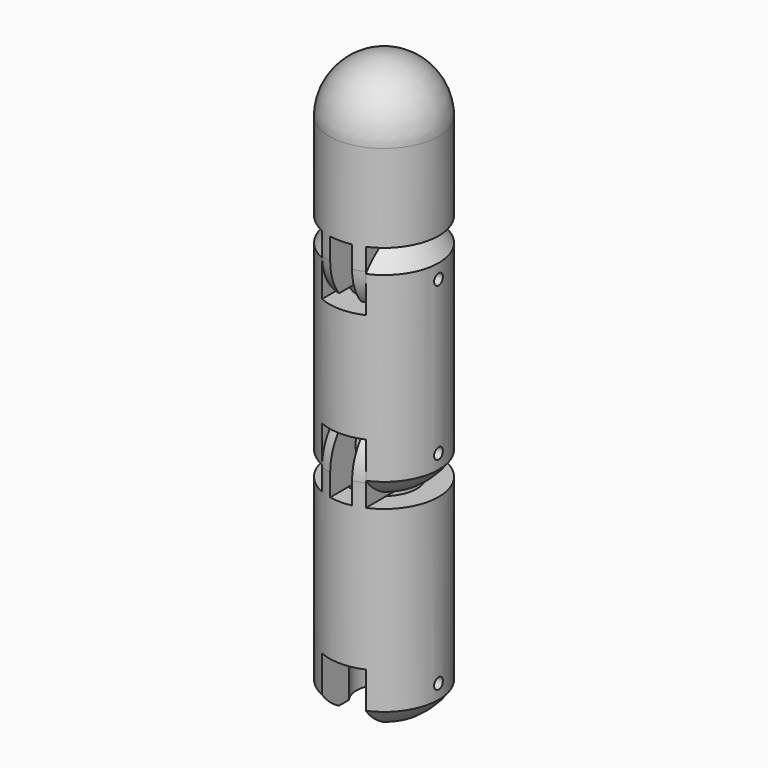
from build123d import *

# Parameters (mm, degrees)
CYLINDER067_R                = 3
CYLINDER067_DEPTH            = 10
CYLINDER071_R                = 5
CYLINDER071_DEPTH            = 4
CYLINDER066_R                = 0.5
CYLINDER066_DEPTH            = 10
CYLINDER075_R                = 2.5
CYLINDER075_DEPTH            = 10
BOX025_W                     = 4
BOX025_H                     = 10
BOX025_DEPTH                 = 5
CYLINDER074_R                = 5
CYLINDER074_DEPTH            = 10
CYLINDER063_R                = 0.5
CYLINDER063_DEPTH            = 10
CYLINDER065_R                = 2
CYLINDER065_DEPTH            = 4
CYLINDER069_R                = 3
CYLINDER069_DEPTH            = 10
BOX026_W                     = 10
BOX026_H                     = 10
BOX026_DEPTH                 = 10
BOX023_W                     = 2
BOX023_H                     = 10
BOX023_DEPTH                 = 10
BOX024_W                     = 10
BOX024_H                     = 10
BOX024_DEPTH                 = 10
CYLINDER076_R                = 5
CYLINDER076_DEPTH            = 10
CYLINDER072_R                = 5
CYLINDER072_DEPTH            = 10
CYLINDER079_R                = 0.5
CYLINDER079_DEPTH            = 10
CYLINDER068_R                = 2
CYLINDER068_DEPTH            = 4
CYLINDER080_R                = 3
CYLINDER080_DEPTH            = 10
BOX027_W                     = 10
BOX027_H                     = 10
BOX027_DEPTH                 = 10
BOX028_W                     = 2
BOX028_H                     = 10
BOX028_DEPTH                 = 10
BOX022_W                     = 10
BOX022_H                     = 10
BOX022_DEPTH                 = 10
CYLINDER078_R                = 5
CYLINDER078_DEPTH            = 10
CYLINDER077_R                = 5
CYLINDER077_DEPTH            = 10
CUT067_PLACEMENT_ANGLE       = 180
CYLINDER084_R                = 3
CYLINDER084_DEPTH            = 10
CYLINDER070_R                = 5
CYLINDER070_DEPTH            = 4
CYLINDER082_R                = 0.5
CYLINDER082_DEPTH            = 10
CYLINDER064_R                = 2.5
CYLINDER064_DEPTH            = 10
BOX029_W                     = 4
BOX029_H                     = 10
BOX029_DEPTH                 = 5
CYLINDER083_R                = 5
CYLINDER083_DEPTH            = 10
FUSION005033_PLACEMENT_ANGLE = 180
CYLINDER086_R                = 3
CYLINDER086_DEPTH            = 10
CYLINDER085_R                = 5
CYLINDER085_DEPTH            = 4
CYLINDER081_R                = 0.5
CYLINDER081_DEPTH            = 10
CYLINDER087_R                = 2.5
CYLINDER087_DEPTH            = 10
BOX030_W                     = 4
BOX030_H                     = 10
BOX030_DEPTH                 = 5
CYLINDER073_R                = 5
CYLINDER073_DEPTH            = 10


with BuildPart() as cylinder067:
    # Cylinder067 → Cylinder067 (new body)
    with BuildSketch(Plane(origin=(18, 0, -6), x_dir=(1, 0, 0), z_dir=(0, 0, 1))):
        Circle(CYLINDER067_R)
    extrude(amount=CYLINDER067_DEPTH)


with BuildPart() as cut064:
    # Cylinder071 → Cylinder071 (new body)
    with BuildSketch(Plane(origin=(18, 0, -4), x_dir=(1, 0, 0), z_dir=(0, 0, 1))):
        Circle(CYLINDER071_R)
    extrude(amount=CYLINDER071_DEPTH)

    # Cut064: cut Cylinder067
    add(cylinder067.part, mode=Mode.SUBTRACT)


with BuildPart() as cut064_1:
    # Cut064 placement: moved
    add(cut064.part.moved(Location((-18, 0, 0))))


with BuildPart() as sphere016:
    # Sphere016 → Sphere016 (revolve)
    with BuildSketch(Plane(origin=(0, 0, -5), x_dir=(1, 0, 0), z_dir=(0, -1, 0))):
        with BuildLine():
            ThreePointArc((0, -6), (6, 0), (0, 6))
            Line((0, 6), (0, -6))
        make_face()
    revolve(axis=Axis((0, 0, -5), (0, 0, 1)))


with BuildPart() as cylinder066:
    # Cylinder066 → Cylinder066 (new body)
    with BuildSketch(Plane(origin=(5, 0, -7), x_dir=(0, 0, 1), z_dir=(-1, 0, 0))):
        Circle(CYLINDER066_R)
    extrude(amount=CYLINDER066_DEPTH)


with BuildPart() as cylinder075:
    # Cylinder075 → Cylinder075 (new body)
    with BuildSketch(Plane.XY.offset(-10)):
        Circle(CYLINDER075_R)
    extrude(amount=CYLINDER075_DEPTH)


with BuildPart() as cube025:
    # Box025 → Box025 (new body)
    with BuildSketch(Plane(origin=(-2, -5, -10), x_dir=(1, 0, 0), z_dir=(0, 0, 1))):
        with Locations((2, 5)):
            Rectangle(BOX025_W, BOX025_H)
    extrude(amount=BOX025_DEPTH)


with BuildPart() as fusion005028:
    # Cylinder074 → Cylinder074 (new body)
    with BuildSketch(Plane.XY.offset(-10)):
        Circle(CYLINDER074_R)
    extrude(amount=CYLINDER074_DEPTH)

    # Cut063: cut Cube025
    add(cube025.part, mode=Mode.SUBTRACT)

    # Cut062: cut Cylinder075
    add(cylinder075.part, mode=Mode.SUBTRACT)

    # Cut056: cut Cylinder066
    add(cylinder066.part, mode=Mode.SUBTRACT)

    # Common012: intersect Sphere016
    add(sphere016.part, mode=Mode.INTERSECT)

    # Fusion005030: union Cut064
    add(cut064_1.part)


with BuildPart() as fusion005028_1:
    # Fusion005028 placement: moved
    add(fusion005028.part.moved(Location((0, 0, -18.5))))


with BuildPart() as cylinder063:
    # Cylinder063 → Cylinder063 (new body)
    with BuildSketch(Plane(origin=(-5, 0, -7), x_dir=(0, 0, -1), z_dir=(1, 0, 0))):
        Circle(CYLINDER063_R)
    extrude(amount=CYLINDER063_DEPTH)


with BuildPart() as cylinder065:
    # Cylinder065 → Cylinder065 (new body)
    with BuildSketch(Plane(origin=(-2, -50, 1), x_dir=(0, 0, -1), z_dir=(1, 0, 0))):
        Circle(CYLINDER065_R)
    extrude(amount=CYLINDER065_DEPTH)


with BuildPart() as cylinder069:
    # Cylinder069 → Cylinder069 (new body)
    with BuildSketch(Plane(origin=(0, -50, -12), x_dir=(1, 0, 0), z_dir=(0, 0, 1))):
        Circle(CYLINDER069_R)
    extrude(amount=CYLINDER069_DEPTH)


with BuildPart() as cube026:
    # Box026 → Box026 (new body)
    with BuildSketch(Plane(origin=(-12, -55, -2), x_dir=(1, 0, 0), z_dir=(0, 0, 1))):
        with Locations((5, 5)):
            Rectangle(BOX026_W, BOX026_H)
    extrude(amount=BOX026_DEPTH)


with BuildPart() as cube023:
    # Box023 → Box023 (new body)
    with BuildSketch(Plane(origin=(-1, -55, -2), x_dir=(1, 0, 0), z_dir=(0, 0, 1))):
        with Locations((1, 5)):
            Rectangle(BOX023_W, BOX023_H)
    extrude(amount=BOX023_DEPTH)


with BuildPart() as cube024:
    # Box024 → Box024 (new body)
    with BuildSketch(Plane(origin=(2, -55, -2), x_dir=(1, 0, 0), z_dir=(0, 0, 1))):
        with Locations((5, 5)):
            Rectangle(BOX024_W, BOX024_H)
    extrude(amount=BOX024_DEPTH)


with BuildPart() as cylinder076:
    # Cylinder076 → Cylinder076 (new body)
    with BuildSketch(Plane(origin=(0, -50, -10), x_dir=(1, 0, 0), z_dir=(0, 0, 1))):
        Circle(CYLINDER076_R)
    extrude(amount=CYLINDER076_DEPTH)


with BuildPart() as sphere017:
    # Sphere017 → Sphere017 (revolve)
    with BuildSketch(Plane.XZ.offset(50)):
        with BuildLine():
            ThreePointArc((5, 0), (3.535534, 3.535534), (0, 5))
            Line((0, 5), (0, 0))
            Line((0, 0), (5, 0))
        make_face()
    revolve(axis=Axis((0, -50, 0), (0, 0, 1)))


with BuildPart() as cut060:
    # Cylinder072 → Cylinder072 (new body)
    with BuildSketch(Plane(origin=(0, -50, -7), x_dir=(1, 0, 0), z_dir=(0, 0, 1))):
        Circle(CYLINDER072_R)
    extrude(amount=CYLINDER072_DEPTH)

    # Common014: intersect Sphere017
    add(sphere017.part, mode=Mode.INTERSECT)

    # Fusion005024: union Cylinder076
    add(cylinder076.part)

    # Cut061: cut Cube024
    add(cube024.part, mode=Mode.SUBTRACT)

    # Cut059: cut Cube023
    add(cube023.part, mode=Mode.SUBTRACT)

    # Cut058: cut Cube026
    add(cube026.part, mode=Mode.SUBTRACT)

    # Cut055: cut Cylinder069
    add(cylinder069.part, mode=Mode.SUBTRACT)

    # Fusion005027: union Cylinder065
    add(cylinder065.part)


with BuildPart() as cut060_1:
    # Fusion005029 placement: moved
    add(cut060.part.moved(Location((0, 50, -8.5))))

    # Cut060: cut Cylinder063
    add(cylinder063.part, mode=Mode.SUBTRACT)


with BuildPart() as cut060_2:
    # Cut060 placement: moved
    add(cut060_1.part.moved(Location((0, 0, -18.5))))


with BuildPart() as cylinder079:
    # Cylinder079 → Cylinder079 (new body)
    with BuildSketch(Plane(origin=(-5, 0, -7), x_dir=(0, 0, -1), z_dir=(1, 0, 0))):
        Circle(CYLINDER079_R)
    extrude(amount=CYLINDER079_DEPTH)


with BuildPart() as cylinder068:
    # Cylinder068 → Cylinder068 (new body)
    with BuildSketch(Plane(origin=(-2, -50, 1), x_dir=(0, 0, -1), z_dir=(1, 0, 0))):
        Circle(CYLINDER068_R)
    extrude(amount=CYLINDER068_DEPTH)


with BuildPart() as cylinder080:
    # Cylinder080 → Cylinder080 (new body)
    with BuildSketch(Plane(origin=(0, -50, -12), x_dir=(1, 0, 0), z_dir=(0, 0, 1))):
        Circle(CYLINDER080_R)
    extrude(amount=CYLINDER080_DEPTH)


with BuildPart() as cube027:
    # Box027 → Box027 (new body)
    with BuildSketch(Plane(origin=(-12, -55, -2), x_dir=(1, 0, 0), z_dir=(0, 0, 1))):
        with Locations((5, 5)):
            Rectangle(BOX027_W, BOX027_H)
    extrude(amount=BOX027_DEPTH)


with BuildPart() as cube028:
    # Box028 → Box028 (new body)
    with BuildSketch(Plane(origin=(-1, -55, -2), x_dir=(1, 0, 0), z_dir=(0, 0, 1))):
        with Locations((1, 5)):
            Rectangle(BOX028_W, BOX028_H)
    extrude(amount=BOX028_DEPTH)


with BuildPart() as cube022:
    # Box022 → Box022 (new body)
    with BuildSketch(Plane(origin=(2, -55, -2), x_dir=(1, 0, 0), z_dir=(0, 0, 1))):
        with Locations((5, 5)):
            Rectangle(BOX022_W, BOX022_H)
    extrude(amount=BOX022_DEPTH)


with BuildPart() as cylinder078:
    # Cylinder078 → Cylinder078 (new body)
    with BuildSketch(Plane(origin=(0, -50, -10), x_dir=(1, 0, 0), z_dir=(0, 0, 1))):
        Circle(CYLINDER078_R)
    extrude(amount=CYLINDER078_DEPTH)


with BuildPart() as sphere019:
    # Sphere019 → Sphere019 (revolve)
    with BuildSketch(Plane.XZ.offset(50)):
        with BuildLine():
            ThreePointArc((5, 0), (3.535534, 3.535534), (0, 5))
            Line((0, 5), (0, 0))
            Line((0, 0), (5, 0))
        make_face()
    revolve(axis=Axis((0, -50, 0), (0, 0, 1)))


with BuildPart() as cut067:
    # Cylinder077 → Cylinder077 (new body)
    with BuildSketch(Plane(origin=(0, -50, -7), x_dir=(1, 0, 0), z_dir=(0, 0, 1))):
        Circle(CYLINDER077_R)
    extrude(amount=CYLINDER077_DEPTH)

    # Common015: intersect Sphere019
    add(sphere019.part, mode=Mode.INTERSECT)

    # Fusion005026: union Cylinder078
    add(cylinder078.part)

    # Cut066: cut Cube022
    add(cube022.part, mode=Mode.SUBTRACT)

    # Cut068: cut Cube028
    add(cube028.part, mode=Mode.SUBTRACT)

    # Cut069: cut Cube027
    add(cube027.part, mode=Mode.SUBTRACT)

    # Cut065: cut Cylinder080
    add(cylinder080.part, mode=Mode.SUBTRACT)

    # Fusion005025: union Cylinder068
    add(cylinder068.part)


with BuildPart() as cut067_1:
    # Fusion005031 placement: moved
    add(cut067.part.moved(Location((0, 50, -8.5))))

    # Cut067: cut Cylinder079
    add(cylinder079.part, mode=Mode.SUBTRACT)


with BuildPart() as cut067_2:
    # Cut067 placement: moved
    add(cut067_1.part.moved(Location((0, 0, -18.5))).rotate(Axis((0, 0, -18.5), (1, 0, 0)), CUT067_PLACEMENT_ANGLE))


with BuildPart() as cylinder084:
    # Cylinder084 → Cylinder084 (new body)
    with BuildSketch(Plane(origin=(18, 0, -6), x_dir=(1, 0, 0), z_dir=(0, 0, 1))):
        Circle(CYLINDER084_R)
    extrude(amount=CYLINDER084_DEPTH)


with BuildPart() as cut074:
    # Cylinder070 → Cylinder070 (new body)
    with BuildSketch(Plane(origin=(18, 0, -4), x_dir=(1, 0, 0), z_dir=(0, 0, 1))):
        Circle(CYLINDER070_R)
    extrude(amount=CYLINDER070_DEPTH)

    # Cut074: cut Cylinder084
    add(cylinder084.part, mode=Mode.SUBTRACT)


with BuildPart() as cut074_1:
    # Cut074 placement: moved
    add(cut074.part.moved(Location((-18, 0, 0))))


with BuildPart() as sphere015:
    # Sphere015 → Sphere015 (revolve)
    with BuildSketch(Plane(origin=(0, 0, -5), x_dir=(1, 0, 0), z_dir=(0, -1, 0))):
        with BuildLine():
            ThreePointArc((0, -6), (6, 0), (0, 6))
            Line((0, 6), (0, -6))
        make_face()
    revolve(axis=Axis((0, 0, -5), (0, 0, 1)))


with BuildPart() as cylinder082:
    # Cylinder082 → Cylinder082 (new body)
    with BuildSketch(Plane(origin=(5, 0, -7), x_dir=(0, 0, 1), z_dir=(-1, 0, 0))):
        Circle(CYLINDER082_R)
    extrude(amount=CYLINDER082_DEPTH)


with BuildPart() as cylinder064:
    # Cylinder064 → Cylinder064 (new body)
    with BuildSketch(Plane.XY.offset(-10)):
        Circle(CYLINDER064_R)
    extrude(amount=CYLINDER064_DEPTH)


with BuildPart() as cube029:
    # Box029 → Box029 (new body)
    with BuildSketch(Plane(origin=(-2, -5, -10), x_dir=(1, 0, 0), z_dir=(0, 0, 1))):
        with Locations((2, 5)):
            Rectangle(BOX029_W, BOX029_H)
    extrude(amount=BOX029_DEPTH)


with BuildPart() as fusion005033:
    # Cylinder083 → Cylinder083 (new body)
    with BuildSketch(Plane.XY.offset(-10)):
        Circle(CYLINDER083_R)
    extrude(amount=CYLINDER083_DEPTH)

    # Cut070: cut Cube029
    add(cube029.part, mode=Mode.SUBTRACT)

    # Cut073: cut Cylinder064
    add(cylinder064.part, mode=Mode.SUBTRACT)

    # Cut054: cut Cylinder082
    add(cylinder082.part, mode=Mode.SUBTRACT)

    # Common013: intersect Sphere015
    add(sphere015.part, mode=Mode.INTERSECT)

    # Fusion005032: union Cut074
    add(cut074_1.part)


with BuildPart() as fusion005033_1:
    # Fusion005033 placement: moved
    add(fusion005033.part.moved(Location((0, 0, -18.5))).rotate(Axis((0, 0, -18.5), (1, 0, 0)), FUSION005033_PLACEMENT_ANGLE))


with BuildPart() as cylinder086:
    # Cylinder086 → Cylinder086 (new body)
    with BuildSketch(Plane(origin=(18, 0, -6), x_dir=(1, 0, 0), z_dir=(0, 0, 1))):
        Circle(CYLINDER086_R)
    extrude(amount=CYLINDER086_DEPTH)


with BuildPart() as cut075:
    # Cylinder085 → Cylinder085 (new body)
    with BuildSketch(Plane(origin=(18, 0, -4), x_dir=(1, 0, 0), z_dir=(0, 0, 1))):
        Circle(CYLINDER085_R)
    extrude(amount=CYLINDER085_DEPTH)

    # Cut075: cut Cylinder086
    add(cylinder086.part, mode=Mode.SUBTRACT)


with BuildPart() as cut075_1:
    # Cut075 placement: moved
    add(cut075.part.moved(Location((-18, 0, 0))))


with BuildPart() as sphere020:
    # Sphere020 → Sphere020 (revolve)
    with BuildSketch(Plane(origin=(0, 0, -5), x_dir=(1, 0, 0), z_dir=(0, -1, 0))):
        with BuildLine():
            ThreePointArc((0, -6), (6, 0), (0, 6))
            Line((0, 6), (0, -6))
        make_face()
    revolve(axis=Axis((0, 0, -5), (0, 0, 1)))


with BuildPart() as cylinder081:
    # Cylinder081 → Cylinder081 (new body)
    with BuildSketch(Plane(origin=(5, 0, -7), x_dir=(0, 0, 1), z_dir=(-1, 0, 0))):
        Circle(CYLINDER081_R)
    extrude(amount=CYLINDER081_DEPTH)


with BuildPart() as cylinder087:
    # Cylinder087 → Cylinder087 (new body)
    with BuildSketch(Plane.XY.offset(-10)):
        Circle(CYLINDER087_R)
    extrude(amount=CYLINDER087_DEPTH)


with BuildPart() as cube030:
    # Box030 → Box030 (new body)
    with BuildSketch(Plane(origin=(-2, -5, -10), x_dir=(1, 0, 0), z_dir=(0, 0, 1))):
        with Locations((2, 5)):
            Rectangle(BOX030_W, BOX030_H)
    extrude(amount=BOX030_DEPTH)


with BuildPart() as fusion005035:
    # Cylinder073 → Cylinder073 (new body)
    with BuildSketch(Plane.XY.offset(-10)):
        Circle(CYLINDER073_R)
    extrude(amount=CYLINDER073_DEPTH)

    # Cut057: cut Cube030
    add(cube030.part, mode=Mode.SUBTRACT)

    # Cut071: cut Cylinder087
    add(cylinder087.part, mode=Mode.SUBTRACT)

    # Cut072: cut Cylinder081
    add(cylinder081.part, mode=Mode.SUBTRACT)

    # Common016: intersect Sphere020
    add(sphere020.part, mode=Mode.INTERSECT)

    # Fusion005034: union Cut075
    add(cut075_1.part)


with BuildPart() as fusion005035_1:
    # Fusion005035 placement: moved
    add(fusion005035.part.moved(Location((0, 0, -37))))


with BuildPart() as connect001001:
    # Sphere018 → Sphere018 (revolve)
    with BuildSketch(Plane.XZ):
        with BuildLine():
            ThreePointArc((5, 0), (3.535534, 3.535534), (0, 5))
            Line((0, 5), (0, 0))
            Line((0, 0), (5, 0))
        make_face()
    revolve(axis=Axis((0, 0, 0), (0, 0, 1)))

    # Connect001: union Fusion005028, Cut060, Cut067, Fusion005033, Fusion005035
    add(fusion005028_1.part)
    add(cut060_2.part)
    add(cut067_2.part)
    add(fusion005033_1.part)
    add(fusion005035_1.part)


with BuildPart() as connect001001_1:
    # Connect001 placement: moved
    add(connect001001.part.moved(Location((-92, 0, 0))))


solid = connect001001_1.part
